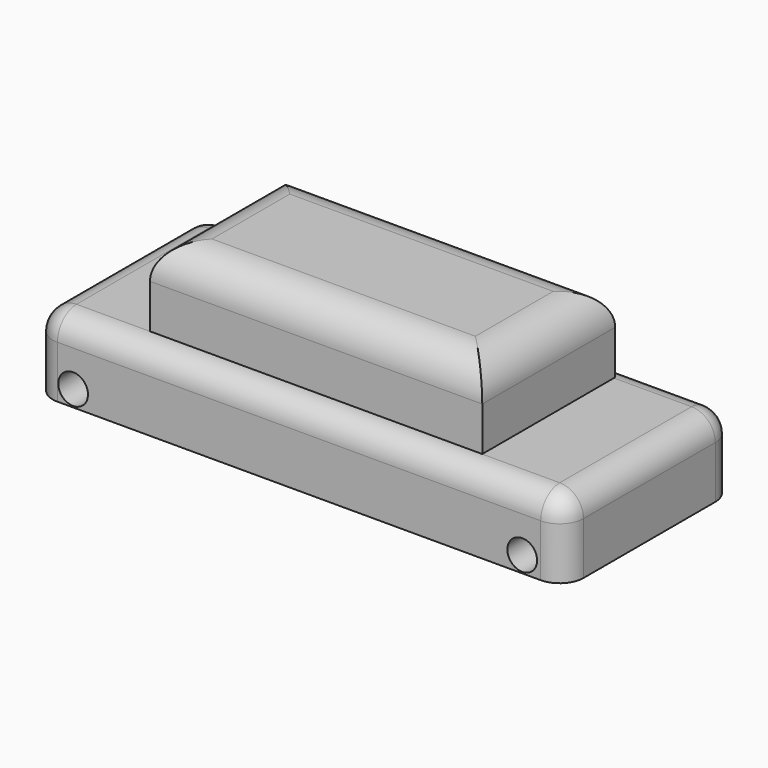
from build123d import *

# Parameters (mm, degrees)
F1_DEPTH = 16.256
F2_R     = 5.08
F3_W     = 70.9863193333
F3_H     = 35.4931587353
F4_DEPTH = 33.02
F5_R     = 7.3585229381
F7_D     = 6.35
F7_DEPTH = 16.9956048409


with BuildPart() as f1:
    # F0 (on Top) → F1 (new body)
    with BuildSketch(Plane.XY):
        with BuildLine():
            Line((57.6345990729, 28.3577627349), (-45.6030252707, 28.3577627349))
            ThreePointArc((-45.6030252707, 28.3577627349), (-49.1951277191, 26.8698651833), (-50.6830252707, 23.2777627349))
            Line((-50.6830252707, 23.2777627349), (-50.6830252707, -11.9146048409))
            ThreePointArc((-50.6830252707, -11.9146048409), (-49.1951277191, -15.5067072893), (-45.6030252707, -16.9946048409))
            Line((-45.6030252707, -16.9946048409), (57.6345990729, -16.9946048409))
            ThreePointArc((57.6345990729, -16.9946048409), (61.2267015214, -15.5067072893), (62.7145990729, -11.9146048409))
            Line((62.7145990729, -11.9146048409), (62.7145990729, 23.2777627349))
            ThreePointArc((62.7145990729, 23.2777627349), (61.2267015214, 26.8698651833), (57.6345990729, 28.3577627349))
        make_face()
    extrude(amount=F1_DEPTH)

    # F2
    f2_edges = [f1.edges().sort_by_distance(p)[0] for p in [
        (-49.195128, -15.506707, 16.256),
    ]]
    fillet(f2_edges, radius=F2_R)

    # F3 (on Top) → F4 (join)
    with BuildSketch(Plane.XY):
        with Locations((5.5646058172, 5.8653946035)):
            Rectangle(F3_W, F3_H)
    extrude(amount=F4_DEPTH)

    # F5
    f5_edges = [f1.edges().sort_by_distance(p)[0] for p in [
        (5.564606, 23.611974, 33.02),
        (-29.928554, 5.865395, 33.02),
        (5.564606, -11.881185, 33.02),
        (41.057765, 5.865395, 33.02),
    ]]
    fillet(f5_edges, radius=F5_R)

    # F7 (through all, one way)
    with BuildSketch(Plane(origin=(0, 0, 0), x_dir=(1, 0, 0), z_dir=(0, 1, 0))):
        with Locations((53.6909215152, -3.4590789583), (-42.2609224916, -3.4590789583)):
            Circle(F7_D / 2)
    extrude(amount=-F7_DEPTH, mode=Mode.SUBTRACT)


solid = f1.part
